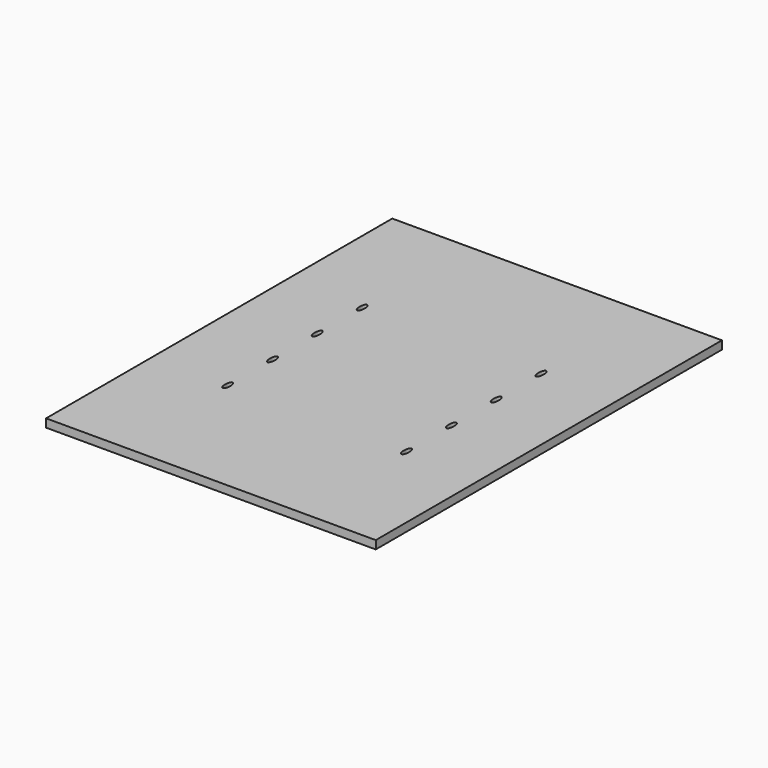
from build123d import *

# Parameters (mm, degrees)
F0_W     = 80
F0_H     = 105
F1_DEPTH = 2


with BuildPart() as f1:
    # F0 (on Top) → F1 (new body)
    with BuildSketch(Plane.XY):
        with Locations((6.59622, -6.765696)):
            Rectangle(F0_W, F0_H)
        with BuildLine():
            add(Edge.make_bspline(
                [(-15.01749, -25.665696), (-16.056721, -25.665696), (-15.537105, -27.915696), (-15.01749, -30.165696), (-14.497875, -27.915696), (-13.97826, -25.665696), (-15.01749, -25.665696)],
                knots=[0, 0, 0, 2.094395, 2.094395, 4.18879, 4.18879, 6.283185, 6.283185, 6.283185], degree=2, weights=[1, 0.5, 1, 0.5, 1, 0.5, 1]))
        make_face(mode=Mode.SUBTRACT)
        with BuildLine():
            add(Edge.make_bspline(
                [(-15.01749, -12.065696), (-16.056721, -12.065696), (-15.537105, -14.315696), (-15.01749, -16.565696), (-14.497875, -14.315696), (-13.97826, -12.065696), (-15.01749, -12.065696)],
                knots=[0, 0, 0, 2.094395, 2.094395, 4.18879, 4.18879, 6.283185, 6.283185, 6.283185], degree=2, weights=[1, 0.5, 1, 0.5, 1, 0.5, 1]))
        make_face(mode=Mode.SUBTRACT)
        with BuildLine():
            add(Edge.make_bspline(
                [(28.38251, -25.665696), (27.343279, -25.665696), (27.862895, -27.915696), (28.38251, -30.165696), (28.902125, -27.915696), (29.42174, -25.665696), (28.38251, -25.665696)],
                knots=[0, 0, 0, 2.094395, 2.094395, 4.18879, 4.18879, 6.283185, 6.283185, 6.283185], degree=2, weights=[1, 0.5, 1, 0.5, 1, 0.5, 1]))
        make_face(mode=Mode.SUBTRACT)
        with BuildLine():
            add(Edge.make_bspline(
                [(28.98251, -13.565696), (28.98251, -10.96762), (28.08251, -12.266658), (27.18251, -13.565696), (28.08251, -14.864735), (28.98251, -16.163773), (28.98251, -13.565696)],
                knots=[4.712389, 4.712389, 4.712389, 6.806784, 6.806784, 8.901179, 8.901179, 10.995574, 10.995574, 10.995574], degree=2, weights=[1, 0.5, 1, 0.5, 1, 0.5, 1]))
        make_face(mode=Mode.SUBTRACT)
        with BuildLine():
            add(Edge.make_bspline(
                [(-15.01749, 1.5), (-16.056721, 1.5), (-15.537105, -0.75), (-15.01749, -3), (-14.497875, -0.75), (-13.97826, 1.5), (-15.01749, 1.5)],
                knots=[0, 0, 0, 2.094395, 2.094395, 4.18879, 4.18879, 6.283185, 6.283185, 6.283185], degree=2, weights=[1, 0.5, 1, 0.5, 1, 0.5, 1]))
        make_face(mode=Mode.SUBTRACT)
        with BuildLine():
            add(Edge.make_bspline(
                [(-15.01749, 15.134304), (-16.056721, 15.134304), (-15.537105, 12.884304), (-15.01749, 10.634304), (-14.497875, 12.884304), (-13.97826, 15.134304), (-15.01749, 15.134304)],
                knots=[0, 0, 0, 2.094395, 2.094395, 4.18879, 4.18879, 6.283185, 6.283185, 6.283185], degree=2, weights=[1, 0.5, 1, 0.5, 1, 0.5, 1]))
        make_face(mode=Mode.SUBTRACT)
        with BuildLine():
            add(Edge.make_bspline(
                [(28.98251, 0.034304), (28.98251, 2.63238), (28.08251, 1.333342), (27.18251, 0.034304), (28.08251, -1.264735), (28.98251, -2.563773), (28.98251, 0.034304)],
                knots=[4.712389, 4.712389, 4.712389, 6.806784, 6.806784, 8.901179, 8.901179, 10.995574, 10.995574, 10.995574], degree=2, weights=[1, 0.5, 1, 0.5, 1, 0.5, 1]))
        make_face(mode=Mode.SUBTRACT)
        with BuildLine():
            add(Edge.make_bspline(
                [(28.98251, 13.634304), (28.98251, 16.23238), (28.08251, 14.933342), (27.18251, 13.634304), (28.08251, 12.335265), (28.98251, 11.036227), (28.98251, 13.634304)],
                knots=[4.712389, 4.712389, 4.712389, 6.806784, 6.806784, 8.901179, 8.901179, 10.995574, 10.995574, 10.995574], degree=2, weights=[1, 0.5, 1, 0.5, 1, 0.5, 1]))
        make_face(mode=Mode.SUBTRACT)
    extrude(amount=F1_DEPTH)


solid = f1.part
